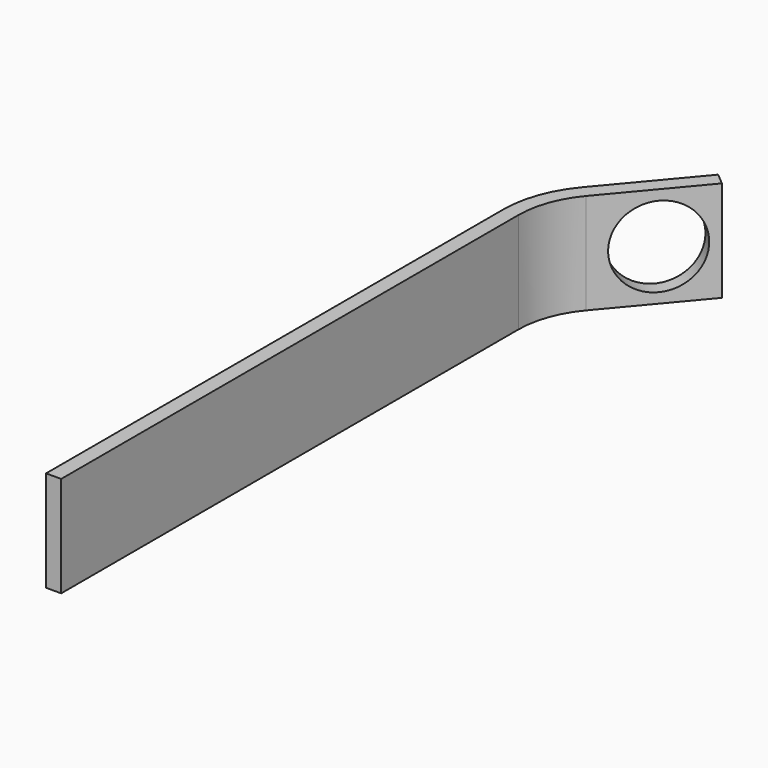
from build123d import *

# Parameters (mm, degrees)
F1_DEPTH = 20
F2_R     = 8
F3_DEPTH = 4


with BuildPart() as f1:
    # F0 (on Top) → F1 (new body)
    with BuildSketch(Plane.XY):
        with BuildLine():
            Line((-3, 0), (0, 0))
            Line((0, 0), (0, 113.4485357832))
            ThreePointArc((0, 113.4485357832), (1.0855328259, 119.6048983631), (4.2112000239, 125.0187127576))
            Line((4.2112000239, 125.0187127576), (17.9980530712, 141.4492444073))
            Line((17.9980530712, 141.4492444073), (15.6999197419, 143.3776072364))
            Line((15.6999197419, 143.3776072364), (1.9130666945, 126.9470755866))
            ThreePointArc((1.9130666945, 126.9470755866), (-1.7335450365, 120.630958793), (-3, 113.4485357832))
            Line((-3, 113.4485357832), (-3, 0))
        make_face()
    extrude(amount=F1_DEPTH)

    # F2 (on face) → F3 (cut)
    with BuildSketch(Plane(origin=(-61.3865985101, 51.509472169, 0), x_dir=(-0.6427876097, -0.7660444431, 0), z_dir=(-0.7660444431, 0.6427876097, 0))):
        with Locations((-109.9253331743, 10)):
            Circle(F2_R)
    extrude(amount=-F3_DEPTH, mode=Mode.SUBTRACT)


solid = f1.part
